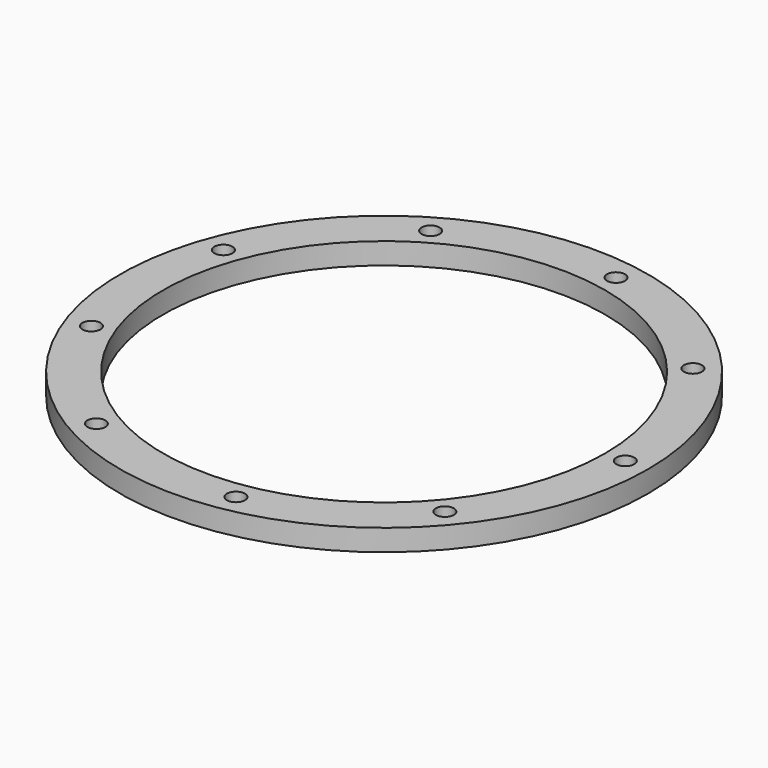
from build123d import *

# Parameters (mm, degrees)
F0_R     = 61.5
F0_R_2   = 2.1
F0_R_3   = 51.5
F1_DEPTH = 2.5


with BuildPart() as f1:
    # F0 (on Top) → F1 (new body, symmetric)
    with BuildSketch(Plane.XY):
        Circle(F0_R)
        with Locations((-28.1, -48.670628)):
            Circle(F0_R_2, mode=Mode.SUBTRACT)
        with Locations((-52.810725, -19.221532)):
            Circle(F0_R_2, mode=Mode.SUBTRACT)
        with Locations((9.759028, -55.346196)):
            Circle(F0_R_2, mode=Mode.SUBTRACT)
        with Locations((43.051698, -36.124664)):
            Circle(F0_R_2, mode=Mode.SUBTRACT)
        with Locations((-52.810725, 19.221532)):
            Circle(F0_R_2, mode=Mode.SUBTRACT)
        with Locations((-28.1, 48.670628)):
            Circle(F0_R_2, mode=Mode.SUBTRACT)
        Circle(F0_R_3, mode=Mode.SUBTRACT)
        with Locations((56.2, 0)):
            Circle(F0_R_2, mode=Mode.SUBTRACT)
        with Locations((9.759028, 55.346196)):
            Circle(F0_R_2, mode=Mode.SUBTRACT)
        with Locations((43.051698, 36.124664)):
            Circle(F0_R_2, mode=Mode.SUBTRACT)
    extrude(amount=F1_DEPTH, both=True)


solid = f1.part
